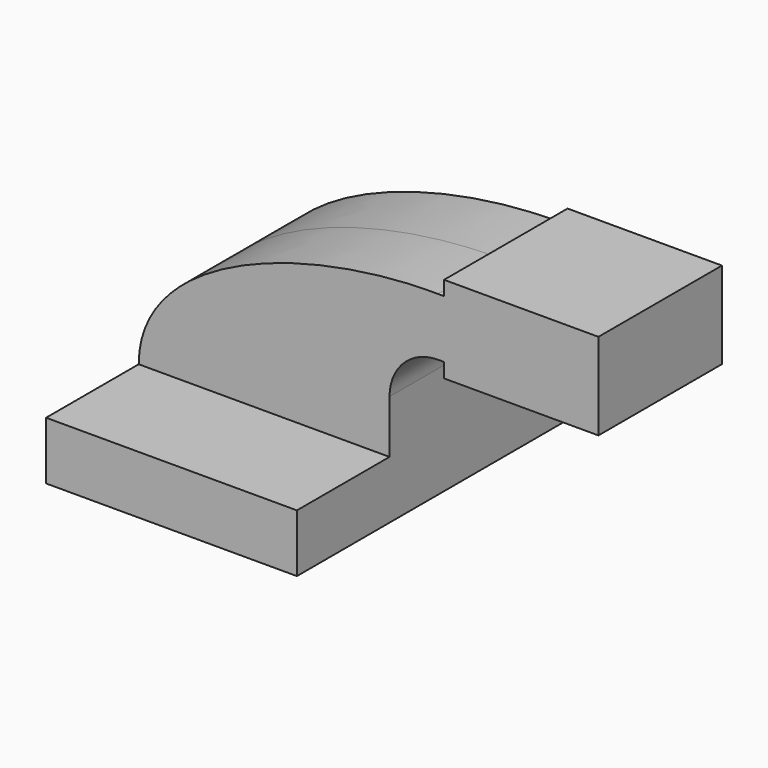
from build123d import *

# Parameters (mm, degrees)
F1_DEPTH = 63.5
F2_DEPTH = 25.4


with BuildPart() as f1:
    # F0 (on Front) → F1 (new body, symmetric)
    with BuildSketch(Plane.XZ):
        Polygon((-41.275, 9.525), (-41.275, -9.525), (41.275, -9.525), (41.275, 9.525), (22.225, 9.525), align=None)
    extrude(amount=F1_DEPTH, both=True)

    # F0 (on Front) → F2 (join, symmetric)
    with BuildSketch(Plane.XZ):
        Polygon((-41.275, 9.525), (-41.275, -9.525), (41.275, -9.525), (41.275, 9.525), (22.225, 9.525), align=None)
        with BuildLine():
            add(Edge.make_bspline(
                [(-41.275, 9.525), (-41.2570908666, 43.8246317208), (13.9917880297, 62.3455643654), (57.1499800845, 61.9251837055)],
                knots=[0, 0, 0, 0, 111.5045109268, 111.5045109268, 111.5045109268, 111.5045109268], degree=3))
            Line((-41.275, 9.525), (22.225, 9.525))
            Line((22.225, 9.525), (22.225, 27.0001837055))
            ThreePointArc((22.225, 27.0001837055), (32.4542886259, 51.6958809973), (57.1499800845, 61.9251837055))
        make_face()
        with BuildLine():
            Line((22.225, 9.525), (41.275, 9.525))
            Line((41.275, 9.525), (41.275, 27.0001837055))
            ThreePointArc((41.275, 27.0001837055), (45.9246766481, 38.2255006563), (57.1499909475, 42.8751837055))
            Line((57.1499909475, 42.8751837055), (59.2224501729, 42.8751848873))
            Line((59.2224501729, 42.8751848873), (59.2224501729, 61.9251848873))
            Line((59.2224501729, 61.9251848873), (57.1499800845, 61.9251837055))
            ThreePointArc((57.1499800845, 61.9251837055), (32.4542886259, 51.6958809973), (22.225, 27.0001837055))
            Line((22.225, 27.0001837055), (22.225, 9.525))
        make_face()
        Polygon((84.6224501729, 61.9251993713), (59.2224501729, 61.9251848873), (59.2224501729, 42.8751848873), (84.6224501729, 42.8751993713), align=None)
        Polygon((59.2224501729, 66.675), (59.2224501729, 61.9251848873), (84.6224501729, 61.9251993713), (84.6224501729, 66.675), align=None)
        Polygon((84.6224501729, 42.8751993713), (59.2224501729, 42.8751848873), (59.2224501729, 38.1), (84.6224501729, 38.1), align=None)
        Polygon((84.6224501729, 66.675), (84.6224501729, 61.9251993713), (84.6224501729, 42.8751993713), (84.6224501729, 38.1), (110.0224501729, 38.1), (110.0224501729, 66.675), align=None)
    extrude(amount=F2_DEPTH, both=True)


solid = f1.part
